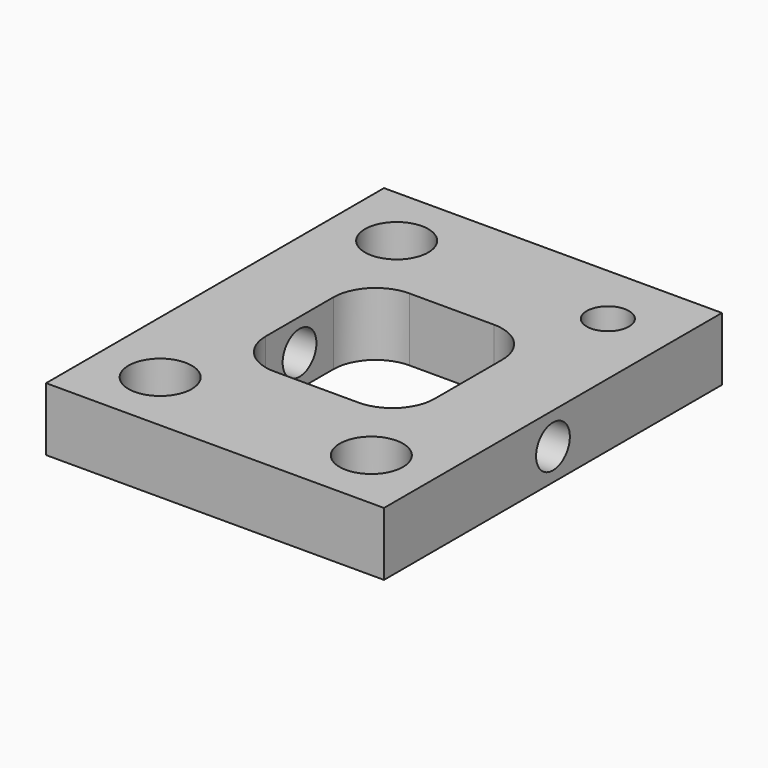
from build123d import *

# Parameters (mm, degrees)
F0_W     = 101.6
F0_H     = 127
F0_R     = 9.525
F0_W_2   = 50.8
F0_H_2   = 50.8
F0_R_2   = 6.35
F1_DEPTH = 19.05
F2_R     = 12.7
F3_R     = 6.35
F4_DEPTH = 101.601


with BuildPart() as f1:
    # F0 (on Top) → F1 (new body)
    with BuildSketch(Plane.XY):
        with Locations((-89.981672, 0)):
            Rectangle(F0_W, F0_H)
        with Locations((-121.731672, -44.45)):
            Circle(F0_R, mode=Mode.SUBTRACT)
        with Locations((-58.231672, -44.45)):
            Circle(F0_R, mode=Mode.SUBTRACT)
        with Locations((-121.731672, 44.45)):
            Circle(F0_R, mode=Mode.SUBTRACT)
        with Locations((-89.981672, 0)):
            Rectangle(F0_W_2, F0_H_2, mode=Mode.SUBTRACT)
        with Locations((-58.231672, 44.45)):
            Circle(F0_R_2, mode=Mode.SUBTRACT)
    extrude(amount=F1_DEPTH)

    # F2
    f2_edges = [f1.edges().sort_by_distance(p)[0] for p in [
        (-115.381672, -25.4, 9.525),
        (-64.581672, -25.4, 9.525),
        (-64.581672, 25.4, 9.525),
        (-115.381672, 25.4, 9.525),
    ]]
    fillet(f2_edges, radius=F2_R)

    # F3 (on face) → F4 (cut, through all)
    with BuildSketch(Plane.YZ.offset(-39.181672)):
        with Locations((0, 9.525)):
            Circle(F3_R)
    extrude(amount=-F4_DEPTH, mode=Mode.SUBTRACT)


solid = f1.part
